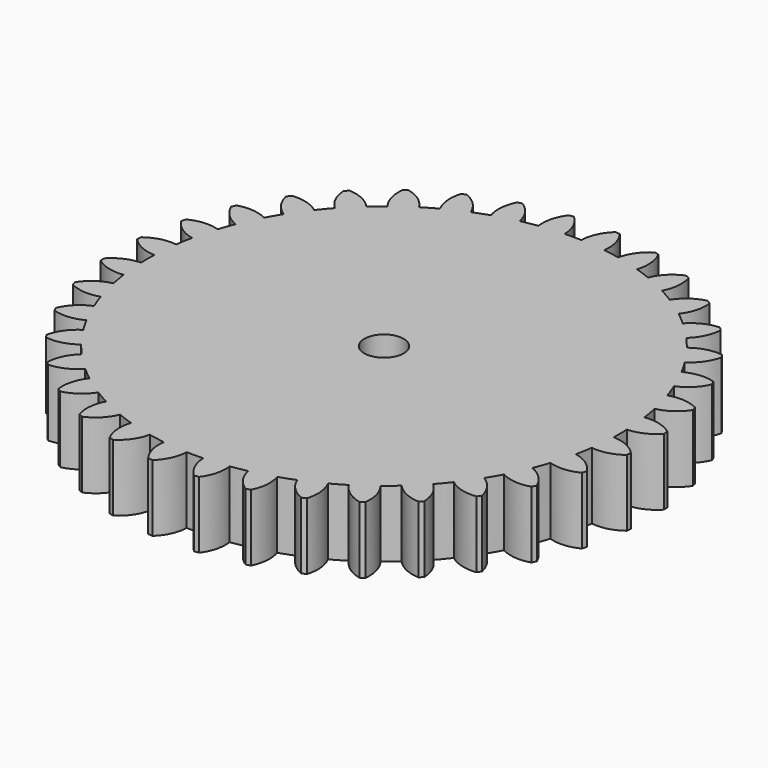
from build123d import *

# Parameters (mm, degrees)
F0_R     = 1.5
F1_DEPTH = 5.08


with BuildPart() as f1:
    # F0 (on Top) → F1 (new body)
    with BuildSketch(Plane.XY):
        with BuildLine():
            Line((-20.042126, -1.57735), (-20.011545, -1.926893))
            ThreePointArc((-20.011545, -1.926893), (-18.969034, -2.435672), (-17.810961, -2.503167))
            ThreePointArc((-17.810961, -2.503167), (-17.712752, -3.123236), (-17.592963, -3.7395))
            ThreePointArc((-17.592963, -3.7395), (-18.65811, -4.199008), (-19.463737, -5.033665))
            Line((-19.463737, -5.033665), (-19.372923, -5.372587))
            ThreePointArc((-19.372923, -5.372587), (-18.257901, -5.692607), (-17.105703, -5.55798))
            ThreePointArc((-17.105703, -5.55798), (-16.901311, -6.151574), (-16.676329, -6.737674))
            ThreePointArc((-16.676329, -6.737674), (-17.645501, -7.375163), (-18.293952, -8.337034))
            Line((-18.293952, -8.337034), (-18.145665, -8.655038))
            ThreePointArc((-18.145665, -8.655038), (-16.992012, -8.776575), (-15.880695, -8.443916))
            ThreePointArc((-15.880695, -8.443916), (-15.576333, -8.993), (-15.252993, -9.531128))
            ThreePointArc((-15.252993, -9.531128), (-16.096743, -10.327226), (-16.568315, -11.387088))
            Line((-16.568315, -11.387088), (-16.36706, -11.67451))
            ThreePointArc((-16.36706, -11.67451), (-15.209829, -11.593871), (-14.173161, -11.073287))
            ThreePointArc((-14.173161, -11.073287), (-13.778075, -11.561178), (-13.366203, -12.034983))
            ThreePointArc((-13.366203, -12.034983), (-14.058893, -12.965503), (-14.339258, -14.09115))
            Line((-14.339258, -14.09115), (-14.09115, -14.339258))
            ThreePointArc((-14.09115, -14.339258), (-12.965503, -14.058893), (-12.034983, -13.366203))
            ThreePointArc((-12.034983, -13.366203), (-11.561178, -13.778075), (-11.073287, -14.173161))
            ThreePointArc((-11.073287, -14.173161), (-11.593871, -15.209829), (-11.67451, -16.36706))
            Line((-11.67451, -16.36706), (-11.387088, -16.568315))
            ThreePointArc((-11.387088, -16.568315), (-10.327226, -16.096743), (-9.531128, -15.252993))
            ThreePointArc((-9.531128, -15.252993), (-8.993, -15.576333), (-8.443916, -15.880695))
            ThreePointArc((-8.443916, -15.880695), (-8.776575, -16.992012), (-8.655038, -18.145665))
            Line((-8.655038, -18.145665), (-8.337034, -18.293952))
            ThreePointArc((-8.337034, -18.293952), (-7.375163, -17.645501), (-6.737674, -16.676329))
            ThreePointArc((-6.737674, -16.676329), (-6.151574, -16.901311), (-5.55798, -17.105703))
            ThreePointArc((-5.55798, -17.105703), (-5.692607, -18.257901), (-5.372587, -19.372923))
            Line((-5.372587, -19.372923), (-5.033665, -19.463737))
            ThreePointArc((-5.033665, -19.463737), (-4.199008, -18.65811), (-3.7395, -17.592963))
            ThreePointArc((-3.7395, -17.592963), (-3.123236, -17.712752), (-2.503167, -17.810961))
            ThreePointArc((-2.503167, -17.810961), (-2.435672, -18.969034), (-1.926893, -20.011545))
            Line((-1.926893, -20.011545), (-1.57735, -20.042126))
            ThreePointArc((-1.57735, -20.042126), (-0.895269, -19.103801), (-0.627702, -17.975043))
            ThreePointArc((-0.627702, -17.975043), (0, -17.986), (0.627702, -17.975043))
            ThreePointArc((0.627702, -17.975043), (0.895269, -19.103801), (1.57735, -20.042126))
            Line((1.57735, -20.042126), (1.926893, -20.011545))
            ThreePointArc((1.926893, -20.011545), (2.435672, -18.969034), (2.503167, -17.810961))
            ThreePointArc((2.503167, -17.810961), (3.123236, -17.712752), (3.7395, -17.592963))
            ThreePointArc((3.7395, -17.592963), (4.199008, -18.65811), (5.033665, -19.463737))
            Line((5.033665, -19.463737), (5.372587, -19.372923))
            ThreePointArc((5.372587, -19.372923), (5.692607, -18.257901), (5.55798, -17.105703))
            ThreePointArc((5.55798, -17.105703), (6.151574, -16.901311), (6.737674, -16.676329))
            ThreePointArc((6.737674, -16.676329), (7.375163, -17.645501), (8.337034, -18.293952))
            Line((8.337034, -18.293952), (8.655038, -18.145665))
            ThreePointArc((8.655038, -18.145665), (8.776575, -16.992012), (8.443916, -15.880695))
            ThreePointArc((8.443916, -15.880695), (8.993, -15.576333), (9.531128, -15.252993))
            ThreePointArc((9.531128, -15.252993), (10.327226, -16.096743), (11.387088, -16.568315))
            Line((11.387088, -16.568315), (11.67451, -16.36706))
            ThreePointArc((11.67451, -16.36706), (11.593871, -15.209829), (11.073287, -14.173161))
            ThreePointArc((11.073287, -14.173161), (11.561178, -13.778075), (12.034983, -13.366203))
            ThreePointArc((12.034983, -13.366203), (12.965503, -14.058893), (14.09115, -14.339258))
            Line((14.09115, -14.339258), (14.339258, -14.09115))
            ThreePointArc((14.339258, -14.09115), (14.058893, -12.965503), (13.366203, -12.034983))
            ThreePointArc((13.366203, -12.034983), (13.778075, -11.561178), (14.173161, -11.073287))
            ThreePointArc((14.173161, -11.073287), (15.209829, -11.593871), (16.36706, -11.67451))
            Line((16.36706, -11.67451), (16.568315, -11.387088))
            ThreePointArc((16.568315, -11.387088), (16.096743, -10.327226), (15.252993, -9.531128))
            ThreePointArc((15.252993, -9.531128), (15.576333, -8.993), (15.880695, -8.443916))
            ThreePointArc((15.880695, -8.443916), (16.992012, -8.776575), (18.145665, -8.655038))
            Line((18.145665, -8.655038), (18.293952, -8.337034))
            ThreePointArc((18.293952, -8.337034), (17.645501, -7.375163), (16.676329, -6.737674))
            ThreePointArc((16.676329, -6.737674), (16.901311, -6.151574), (17.105703, -5.55798))
            ThreePointArc((17.105703, -5.55798), (18.257901, -5.692607), (19.372923, -5.372587))
            Line((19.372923, -5.372587), (19.463737, -5.033665))
            ThreePointArc((19.463737, -5.033665), (18.65811, -4.199008), (17.592963, -3.7395))
            ThreePointArc((17.592963, -3.7395), (17.712752, -3.123236), (17.810961, -2.503167))
            ThreePointArc((17.810961, -2.503167), (18.969034, -2.435672), (20.011545, -1.926893))
            Line((20.011545, -1.926893), (20.042126, -1.57735))
            ThreePointArc((20.042126, -1.57735), (19.103801, -0.895269), (17.975043, -0.627702))
            ThreePointArc((17.975043, -0.627702), (17.986, 0), (17.975043, 0.627702))
            ThreePointArc((17.975043, 0.627702), (19.103801, 0.895269), (20.042126, 1.57735))
            Line((20.042126, 1.57735), (20.011545, 1.926893))
            ThreePointArc((20.011545, 1.926893), (18.969034, 2.435672), (17.810961, 2.503167))
            ThreePointArc((17.810961, 2.503167), (17.712752, 3.123236), (17.592963, 3.7395))
            ThreePointArc((17.592963, 3.7395), (18.65811, 4.199008), (19.463737, 5.033665))
            Line((19.463737, 5.033665), (19.372923, 5.372587))
            ThreePointArc((19.372923, 5.372587), (18.257901, 5.692607), (17.105703, 5.55798))
            ThreePointArc((17.105703, 5.55798), (16.901311, 6.151574), (16.676329, 6.737674))
            ThreePointArc((16.676329, 6.737674), (17.645501, 7.375163), (18.293952, 8.337034))
            Line((18.293952, 8.337034), (18.145665, 8.655038))
            ThreePointArc((18.145665, 8.655038), (16.992012, 8.776575), (15.880695, 8.443916))
            ThreePointArc((15.880695, 8.443916), (15.576333, 8.993), (15.252993, 9.531128))
            ThreePointArc((15.252993, 9.531128), (16.096743, 10.327226), (16.568315, 11.387088))
            Line((16.568315, 11.387088), (16.36706, 11.67451))
            ThreePointArc((16.36706, 11.67451), (15.209829, 11.593871), (14.173161, 11.073287))
            ThreePointArc((14.173161, 11.073287), (13.778075, 11.561178), (13.366203, 12.034983))
            ThreePointArc((13.366203, 12.034983), (14.058893, 12.965503), (14.339258, 14.09115))
            Line((14.339258, 14.09115), (14.09115, 14.339258))
            ThreePointArc((14.09115, 14.339258), (12.965503, 14.058893), (12.034983, 13.366203))
            ThreePointArc((12.034983, 13.366203), (11.561178, 13.778075), (11.073287, 14.173161))
            ThreePointArc((11.073287, 14.173161), (11.593871, 15.209829), (11.67451, 16.36706))
            Line((11.67451, 16.36706), (11.387088, 16.568315))
            ThreePointArc((11.387088, 16.568315), (10.327226, 16.096743), (9.531128, 15.252993))
            ThreePointArc((9.531128, 15.252993), (8.993, 15.576333), (8.443916, 15.880695))
            ThreePointArc((8.443916, 15.880695), (8.776575, 16.992012), (8.655038, 18.145665))
            Line((8.655038, 18.145665), (8.337034, 18.293952))
            ThreePointArc((8.337034, 18.293952), (7.375163, 17.645501), (6.737674, 16.676329))
            ThreePointArc((6.737674, 16.676329), (6.151574, 16.901311), (5.55798, 17.105703))
            ThreePointArc((5.55798, 17.105703), (5.692607, 18.257901), (5.372587, 19.372923))
            Line((5.372587, 19.372923), (5.033665, 19.463737))
            ThreePointArc((5.033665, 19.463737), (4.199008, 18.65811), (3.7395, 17.592963))
            ThreePointArc((3.7395, 17.592963), (3.123236, 17.712752), (2.503167, 17.810961))
            ThreePointArc((2.503167, 17.810961), (2.435672, 18.969034), (1.926893, 20.011545))
            Line((1.926893, 20.011545), (1.57735, 20.042126))
            ThreePointArc((1.57735, 20.042126), (0.895269, 19.103801), (0.627702, 17.975043))
            ThreePointArc((0.627702, 17.975043), (0, 17.986), (-0.627702, 17.975043))
            ThreePointArc((-0.627702, 17.975043), (-0.895269, 19.103801), (-1.57735, 20.042126))
            Line((-1.57735, 20.042126), (-1.926893, 20.011545))
            ThreePointArc((-1.926893, 20.011545), (-2.435672, 18.969034), (-2.503167, 17.810961))
            ThreePointArc((-2.503167, 17.810961), (-3.123236, 17.712752), (-3.7395, 17.592963))
            ThreePointArc((-3.7395, 17.592963), (-4.199008, 18.65811), (-5.033665, 19.463737))
            Line((-5.033665, 19.463737), (-5.372587, 19.372923))
            ThreePointArc((-5.372587, 19.372923), (-5.692607, 18.257901), (-5.55798, 17.105703))
            ThreePointArc((-5.55798, 17.105703), (-6.151574, 16.901311), (-6.737674, 16.676329))
            ThreePointArc((-6.737674, 16.676329), (-7.375163, 17.645501), (-8.337034, 18.293952))
            Line((-8.337034, 18.293952), (-8.655038, 18.145665))
            ThreePointArc((-8.655038, 18.145665), (-8.776575, 16.992012), (-8.443916, 15.880695))
            ThreePointArc((-8.443916, 15.880695), (-8.993, 15.576333), (-9.531128, 15.252993))
            ThreePointArc((-9.531128, 15.252993), (-10.327226, 16.096743), (-11.387088, 16.568315))
            Line((-11.387088, 16.568315), (-11.67451, 16.36706))
            ThreePointArc((-11.67451, 16.36706), (-11.593871, 15.209829), (-11.073287, 14.173161))
            ThreePointArc((-11.073287, 14.173161), (-11.561178, 13.778075), (-12.034983, 13.366203))
            ThreePointArc((-12.034983, 13.366203), (-12.965503, 14.058893), (-14.09115, 14.339258))
            Line((-14.09115, 14.339258), (-14.339258, 14.09115))
            ThreePointArc((-14.339258, 14.09115), (-14.058893, 12.965503), (-13.366203, 12.034983))
            ThreePointArc((-13.366203, 12.034983), (-13.778075, 11.561178), (-14.173161, 11.073287))
            ThreePointArc((-14.173161, 11.073287), (-15.209829, 11.593871), (-16.36706, 11.67451))
            Line((-16.36706, 11.67451), (-16.568315, 11.387088))
            ThreePointArc((-16.568315, 11.387088), (-16.096743, 10.327226), (-15.252993, 9.531128))
            ThreePointArc((-15.252993, 9.531128), (-15.576333, 8.993), (-15.880695, 8.443916))
            ThreePointArc((-15.880695, 8.443916), (-16.992012, 8.776575), (-18.145665, 8.655038))
            Line((-18.145665, 8.655038), (-18.293952, 8.337034))
            ThreePointArc((-18.293952, 8.337034), (-17.645501, 7.375163), (-16.676329, 6.737674))
            ThreePointArc((-16.676329, 6.737674), (-16.901311, 6.151574), (-17.105703, 5.55798))
            ThreePointArc((-17.105703, 5.55798), (-18.257901, 5.692607), (-19.372923, 5.372587))
            Line((-19.372923, 5.372587), (-19.463737, 5.033665))
            ThreePointArc((-19.463737, 5.033665), (-18.65811, 4.199008), (-17.592963, 3.7395))
            ThreePointArc((-17.592963, 3.7395), (-17.712752, 3.123236), (-17.810961, 2.503167))
            ThreePointArc((-17.810961, 2.503167), (-18.969034, 2.435672), (-20.011545, 1.926893))
            Line((-20.011545, 1.926893), (-20.042126, 1.57735))
            ThreePointArc((-20.042126, 1.57735), (-19.103801, 0.895269), (-17.975043, 0.627702))
            ThreePointArc((-17.975043, 0.627702), (-17.986, 0), (-17.975043, -0.627702))
            ThreePointArc((-17.975043, -0.627702), (-19.103801, -0.895269), (-20.042126, -1.57735))
        make_face()
        Circle(F0_R, mode=Mode.SUBTRACT)
    extrude(amount=F1_DEPTH)


solid = f1.part
